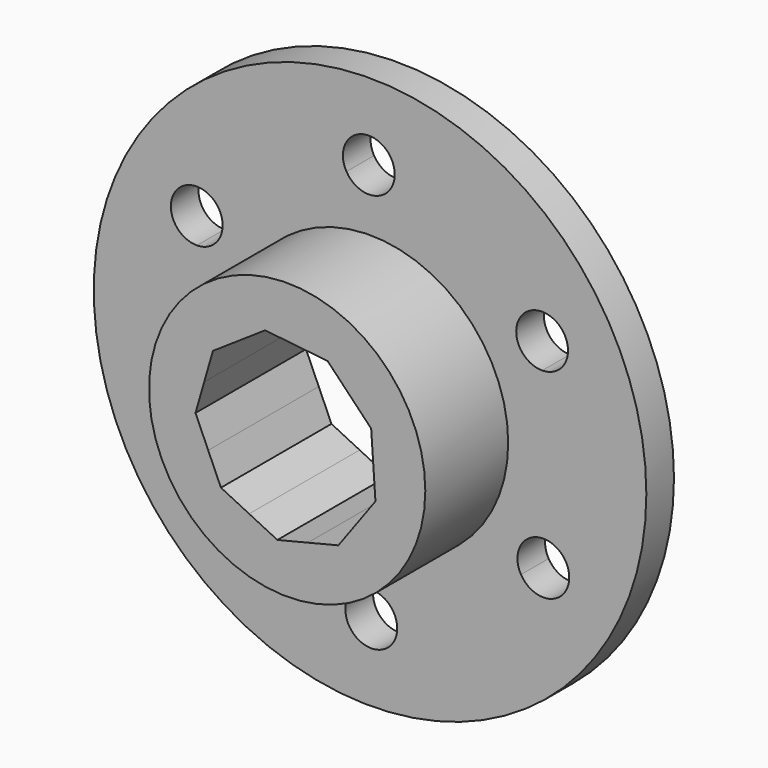
from build123d import *

# Parameters (mm, degrees)
F0_R     = 25.4
F0_R_2   = 12.7
F1_DEPTH = 3.175
F2_R     = 12.7
F3_DEPTH = 12.7
F4_R     = 7.9375
F5_DEPTH = 76.2
F7_DEPTH = 25.4
F9_DEPTH = 50.8


with BuildPart() as f1:
    # F0 (on Front) → F1 (new body)
    with BuildSketch(Plane.XZ):
        Circle(F0_R)
        Circle(F0_R_2, mode=Mode.SUBTRACT)
    extrude(amount=F1_DEPTH)

    # F2 (on Front) → F3 (join)
    with BuildSketch(Plane.XZ):
        Circle(F2_R)
    extrude(amount=F3_DEPTH)

    # F4 (on Front) → F5 (cut)
    with BuildSketch(Plane.XZ):
        Circle(F4_R)
    extrude(amount=F5_DEPTH, mode=Mode.SUBTRACT)

    # F6 (on Front) → F7 (cut)
    with BuildSketch(Plane.XZ):
        with BuildLine():
            Line((-0.1134674759, 18.3305198635), (1.9560859375, 17.1526827645))
            ThreePointArc((1.9560859375, 17.1526827645), (2.1885398686, 17.7213288028), (2.2677825241, 18.3305198635))
            ThreePointArc((2.2677825241, 18.3305198635), (-0.7368962138, 20.6287122338), (-2.1682810318, 17.1271525825))
            Line((-2.1682810318, 17.1271525825), (-0.1134674759, 18.3305198635))
        make_face()
        with BuildLine():
            ThreePointArc((-2.1682810318, 17.1271525825), (-0.0987276184, 15.9493154835), (1.9560859375, 17.1526827645))
            Line((1.9560859375, 17.1526827645), (-0.1134674759, 18.3305198635))
            Line((-0.1134674759, 18.3305198635), (-2.1682810318, 17.1271525825))
        make_face()
        with BuildLine():
            Line((-15.9314296043, 9.0669942151), (-13.8766160484, 10.2703614961))
            ThreePointArc((-13.8766160484, 10.2703614961), (-18.0009830177, 10.2448313141), (-15.9166897468, 6.6857898352))
            Line((-15.9166897468, 6.6857898352), (-15.9314296043, 9.0669942151))
        make_face()
        with BuildLine():
            ThreePointArc((-13.5501796043, 9.0669942151), (-13.6332372339, 9.690422953), (-13.8766160484, 10.2703614961))
            Line((-13.8766160484, 10.2703614961), (-15.9314296043, 9.0669942151))
            Line((-15.9314296043, 9.0669942151), (-15.9166897468, 6.6857898352))
            ThreePointArc((-15.9166897468, 6.6857898352), (-14.2424282946, 7.3884156085), (-13.5501796043, 9.0669942151))
        make_face()
        with BuildLine():
            Line((15.8179621284, 9.2635256484), (15.8327019859, 6.8823212684))
            ThreePointArc((15.8327019859, 6.8823212684), (17.5069634381, 7.5849470418), (18.1992121284, 9.2635256484))
            ThreePointArc((18.1992121284, 9.2635256484), (16.4271531891, 11.5655329928), (13.748408715, 10.4413627473))
            Line((13.748408715, 10.4413627473), (15.8179621284, 9.2635256484))
        make_face()
        with BuildLine():
            ThreePointArc((13.748408715, 10.4413627473), (13.7631485725, 8.0601583673), (15.8327019859, 6.8823212684))
            Line((15.8327019859, 6.8823212684), (15.8179621284, 9.2635256484))
            Line((15.8179621284, 9.2635256484), (13.748408715, 10.4413627473))
        make_face()
        with BuildLine():
            ThreePointArc((18.3126796043, -9.0669942151), (17.6100082109, -7.3779929054), (15.9166897468, -6.6857898352))
            Line((15.9166897468, -6.6857898352), (15.9314296043, -9.0669942151))
            Line((15.9314296043, -9.0669942151), (13.8766160484, -10.2703614961))
            ThreePointArc((13.8766160484, -10.2703614961), (16.5548583422, -11.3651865855), (18.3126796043, -9.0669942151))
        make_face()
        with BuildLine():
            Line((15.9314296043, -9.0669942151), (15.9166897468, -6.6857898352))
            ThreePointArc((15.9166897468, -6.6857898352), (13.8618761909, -7.8891571162), (13.8766160484, -10.2703614961))
            Line((13.8766160484, -10.2703614961), (15.9314296043, -9.0669942151))
        make_face()
        with BuildLine():
            ThreePointArc((2.4947174759, -18.3305198635), (2.4116598463, -17.7070911256), (2.1682810318, -17.1271525825))
            Line((2.1682810318, -17.1271525825), (0.1134674759, -18.3305198635))
            Line((0.1134674759, -18.3305198635), (-1.9560859375, -17.1526827645))
            ThreePointArc((-1.9560859375, -17.1526827645), (-0.4957235848, -20.632527208), (2.4947174759, -18.3305198635))
        make_face()
        with BuildLine():
            Line((0.1134674759, -18.3305198635), (2.1682810318, -17.1271525825))
            ThreePointArc((2.1682810318, -17.1271525825), (0.0987276184, -15.9493154835), (-1.9560859375, -17.1526827645))
            Line((-1.9560859375, -17.1526827645), (0.1134674759, -18.3305198635))
        make_face()
        with BuildLine():
            ThreePointArc((-15.8327019859, -6.8823212684), (-17.8727756843, -10.4668929294), (-13.748408715, -10.4413627473))
            Line((-13.748408715, -10.4413627473), (-15.8179621284, -9.2635256484))
            Line((-15.8179621284, -9.2635256484), (-15.8327019859, -6.8823212684))
        make_face()
        with BuildLine():
            Line((-15.8179621284, -9.2635256484), (-13.748408715, -10.4413627473))
            ThreePointArc((-13.748408715, -10.4413627473), (-13.5159547839, -9.8727167091), (-13.4367121284, -9.2635256484))
            ThreePointArc((-13.4367121284, -9.2635256484), (-14.1393835218, -7.5745243387), (-15.8327019859, -6.8823212684))
            Line((-15.8327019859, -6.8823212684), (-15.8179621284, -9.2635256484))
        make_face()
    extrude(amount=F7_DEPTH, mode=Mode.SUBTRACT)

    # F8 (on Front) → F9 (cut)
    with BuildSketch(Plane.XZ):
        with BuildLine():
            ThreePointArc((-4.4252673903, 6.5894548162), (-1.9046648273, 7.7055926538), (0.8456684244, 7.8923222923))
            Line((0.8456684244, 7.8923222923), (-2.026901991, 8.2001204215))
            Line((-2.026901991, 8.2001204215), (-4.4252673903, 6.5894548162))
        make_face()
        with BuildLine():
            ThreePointArc((-7.62557139, 2.203308246), (-6.4121173773, 4.6785314992), (-4.4252673903, 6.5894548162))
            Line((-4.4252673903, 6.5894548162), (-6.8236328118, 4.9787891959))
            Line((-6.8236328118, 4.9787891959), (-7.62557139, 2.203308246))
        make_face()
        with BuildLine():
            ThreePointArc((0.8456684244, 7.8923222923), (3.4940015971, 7.1271213747), (5.7209066054, 5.5022844222))
            Line((5.7209066054, 5.5022844222), (3.7182387979, 7.5845241677))
            Line((3.7182387979, 7.5845241677), (0.8456684244, 7.8923222923))
        make_face()
        with BuildLine():
            ThreePointArc((5.7209066054, 5.5022844222), (7.2577858275, 3.2137907729), (7.919268966, 0.5376665262))
            Line((7.919268966, 0.5376665262), (7.7235743297, 3.4200447632))
            Line((7.7235743297, 3.4200447632), (5.7209066054, 5.5022844222))
        make_face()
        with BuildLine():
            Line((-0.8999415178, -8.3988339591), (1.9046660077, -7.705592362))
            ThreePointArc((1.9046660077, -7.705592362), (-0.8456678406, -7.8923223549), (-3.4940016205, -7.1271213632))
            Line((-3.4940016205, -7.1271213632), (-0.8999415178, -8.3988339591))
        make_face()
        with BuildLine():
            Line((4.7092712059, -7.0123513401), (6.4121173532, -4.6785315323))
            ThreePointArc((6.4121173532, -4.6785315323), (4.4252678659, -6.5894544968), (1.9046660077, -7.705592362))
            Line((1.9046660077, -7.705592362), (4.7092712059, -7.0123513401))
        make_face()
        with BuildLine():
            Line((-8.4275100038, -0.5721728275), (-7.2577857868, -3.2137908648))
            ThreePointArc((-7.2577857868, -3.2137908648), (-7.9192689629, -0.5376665725), (-7.62557139, 2.203308246))
            Line((-7.62557139, 2.203308246), (-8.4275100038, -0.5721728275))
        make_face()
        with BuildLine():
            Line((-6.0880616036, -5.855408826), (-3.4940016205, -7.1271213632))
            ThreePointArc((-3.4940016205, -7.1271213632), (-5.7209065724, -5.5022844564), (-7.2577857868, -3.2137908648))
            Line((-7.2577857868, -3.2137908648), (-6.0880616036, -5.855408826))
        make_face()
        with BuildLine():
            ThreePointArc((7.919268966, 0.5376665262), (7.9329409322, 0.2689877618), (7.9375, 0))
            ThreePointArc((7.9375, 0), (7.5465252846, -2.4604597903), (6.4121173532, -4.6785315323))
            Line((6.4121173532, -4.6785315323), (8.1149635946, -2.3447115955))
            Line((8.1149635946, -2.3447115955), (7.919268966, 0.5376665262))
        make_face()
    extrude(amount=F9_DEPTH, mode=Mode.SUBTRACT)


solid = f1.part
